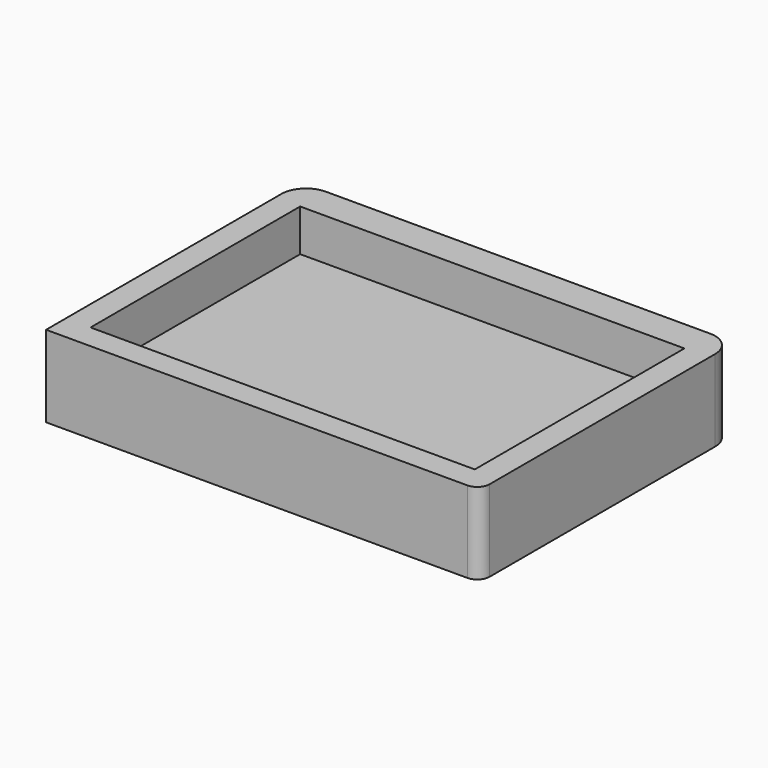
from build123d import *

# Parameters (mm, degrees)
F1_DEPTH = 8.382
F2_DEPTH = 4.064


with BuildPart() as f1:
    # F0 (on Top) → F1 (new body)
    with BuildSketch(Plane.XY):
        with BuildLine():
            Line((-16.079759, 11.745881), (-19.434682, 11.745881))
            ThreePointArc((-19.434682, 11.745881), (-21.230733, 11.001933), (-21.974682, 9.205881))
            Line((-21.974682, 9.205881), (-21.974682, -21.045519))
            Line((-21.974682, -21.045519), (21.357718, -21.045519))
            ThreePointArc((21.357718, -21.045519), (22.255744, -20.673544), (22.627718, -19.775519))
            Line((22.627718, -19.775519), (22.627718, -12.860038))
            Line((22.627718, -12.860038), (22.627718, 3.460978))
            Line((22.627718, 3.460978), (22.627718, 9.205881))
            ThreePointArc((22.627718, 9.205881), (21.883769, 11.001933), (20.087718, 11.745881))
            Line((20.087718, 11.745881), (-10.43586, 11.745881))
            Line((-10.43586, 11.745881), (-16.079759, 11.745881))
        make_face()
        Polygon((-19.434681, -18.505518), (-19.434682, 8.443882), (20.087718, 8.443882), (20.087717, -18.505518), align=None, mode=Mode.SUBTRACT)
    extrude(amount=F1_DEPTH)

    # F0 (on Top) → F2 (join)
    with BuildSketch(Plane.XY):
        Polygon((20.087718, 8.443882), (-19.434682, 8.443882), (-19.434681, -18.505518), (20.087717, -18.505518), align=None)
    extrude(amount=F2_DEPTH)


solid = f1.part
